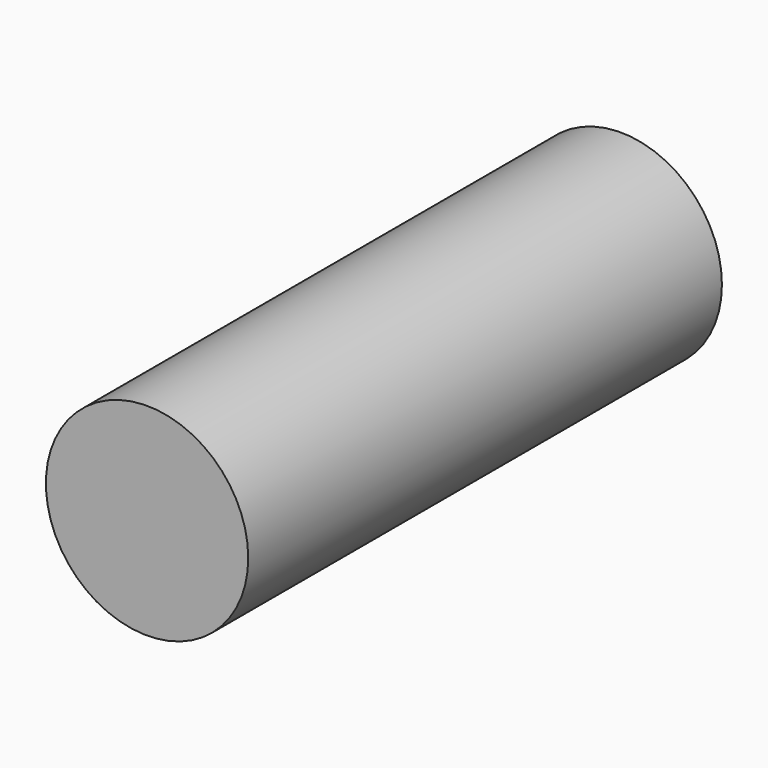
from build123d import *

# Parameters (mm, degrees)
SKETCH_R  = 7.666
PAD_DEPTH = 22.431


with BuildPart() as part:
    # Sketch → Pad (new body, symmetric)
    with BuildSketch(Plane.XZ):
        Circle(SKETCH_R)
    extrude(amount=PAD_DEPTH, both=True)


solid = part.part
